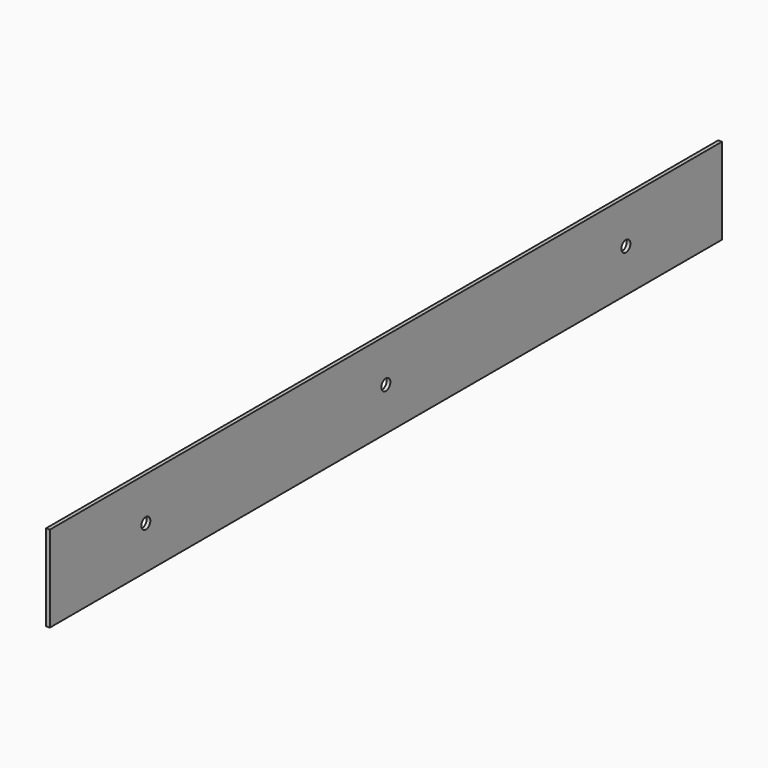
from build123d import *

# Parameters (mm, degrees)
F0_W     = 711.2
F0_H     = 73.038166
F1_DEPTH = 3.175
F2_R     = 4.7625
F3_DEPTH = 3.175


with BuildPart() as f1:
    # F0 (on Right) → F1 (new body)
    with BuildSketch(Plane.YZ):
        Rectangle(F0_W, F0_H)
    extrude(amount=F1_DEPTH)

    # F2 (on face) → F3 (cut, through all)
    with BuildSketch(Plane(origin=(0, 0, 0), x_dir=(0, -1, 0), z_dir=(-1, 0, 0))):
        with Locations((-254, 0)):
            Circle(F2_R)
        Circle(F2_R)
        with Locations((254, 0)):
            Circle(F2_R)
    extrude(amount=-F3_DEPTH, mode=Mode.SUBTRACT)


solid = f1.part
